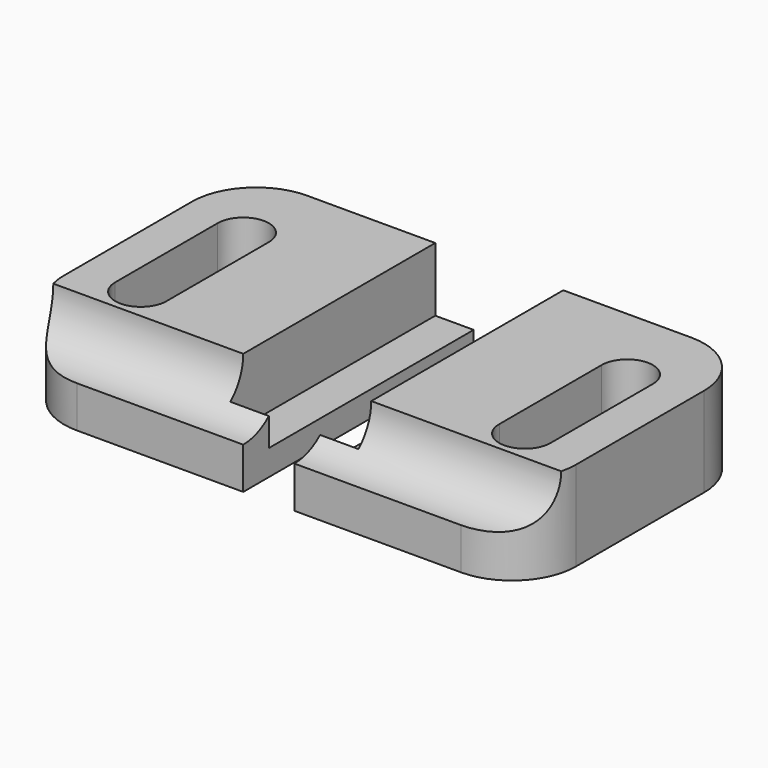
from build123d import *

# Parameters (mm, degrees)
F1_DEPTH = 5
F0_W     = 3
F0_H     = 20
F2_DEPTH = 2
F3_R     = 3.75
F4_DEPTH = 25
F5_R     = 5


with BuildPart() as f1:
    # F0 (on Top) → F1 (new body)
    with BuildSketch(Plane.XY):
        Polygon((-20, 0), (-2, 0), (-2, 2.5), (-5, 2.5), (-5, 22.5), (-15, 22.5), (-20, 22.5), align=None)
        with BuildLine():
            ThreePointArc((-17, 16.25), (-15, 18.25), (-13, 16.25))
            Line((-13, 16.25), (-13, 6.25))
            ThreePointArc((-13, 6.25), (-15, 4.25), (-17, 6.25))
            Line((-17, 6.25), (-17, 16.25))
        make_face(mode=Mode.SUBTRACT)
    extrude(amount=F1_DEPTH)

    # F0 (on Top) → F2 (join)
    with BuildSketch(Plane.XY):
        Polygon((-20, 0), (-2, 0), (-2, 2.5), (-5, 2.5), (-5, 22.5), (-15, 22.5), (-20, 22.5), align=None)
        with BuildLine():
            ThreePointArc((-17, 16.25), (-15, 18.25), (-13, 16.25))
            Line((-13, 16.25), (-13, 6.25))
            ThreePointArc((-13, 6.25), (-15, 4.25), (-17, 6.25))
            Line((-17, 6.25), (-17, 16.25))
        make_face(mode=Mode.SUBTRACT)
        with Locations((-3.5, 12.5)):
            Rectangle(F0_W, F0_H)
    extrude(amount=-F2_DEPTH)

    # F3 (on face) → F4 (cut)
    with BuildSketch(Plane.YZ.offset(-2)):
        with Locations((0, 5)):
            Circle(F3_R)
    extrude(amount=-F4_DEPTH, mode=Mode.SUBTRACT)

    # F5
    f5_edges = [f1.edges().sort_by_distance(p)[0] for p in [
        (-20, 0, -0.375),
        (-20, 22.5, 1.5),
    ]]
    fillet(f5_edges, radius=F5_R)


with BuildPart() as f6_1:
    # F6: instance of F1
    add(f1.part.mirror(Plane.YZ))


solid = Compound([f1.part, f6_1.part])
